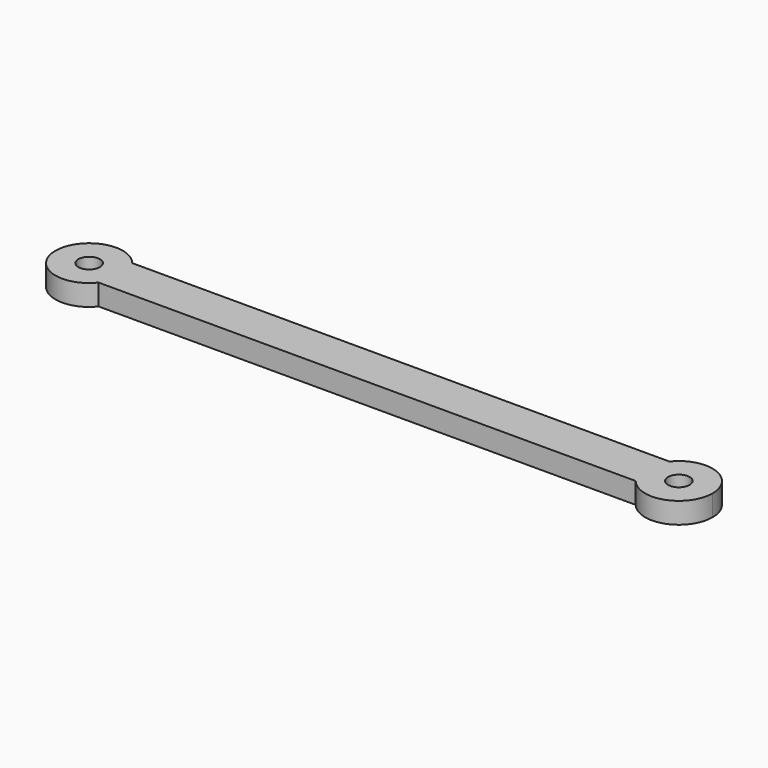
from build123d import *

# Parameters (mm, degrees)
F1_DEPTH = 3.175
F3_D     = 3.2512


with BuildPart() as f1:
    # F0 (on Top) → F1 (new body)
    with BuildSketch(Plane.XY):
        with BuildLine():
            Line((38.6128478041, -0.4344735458), (-42.3560047379, -0.4344735458))
            ThreePointArc((-42.3560047379, -0.4344735458), (-41.5282750891, -1.9270221414), (-41.2415784669, -3.6094735458))
            ThreePointArc((-41.2415784669, -3.6094735458), (-41.5282750891, -5.2919249503), (-42.3560047379, -6.7844735458))
            Line((-42.3560047379, -6.7844735458), (38.6128478041, -6.7844735458))
            ThreePointArc((38.6128478041, -6.7844735458), (37.4984215331, -3.6094735458), (38.6128478041, -0.4344735458))
        make_face()
        with BuildLine():
            ThreePointArc((47.6584215331, -3.6094735458), (44.2608729376, 1.1838298319), (38.6128478041, -0.4344735458))
            Line((38.6128478041, -0.4344735458), (42.5784215331, -0.4344735458))
            Line((42.5784215331, -0.4344735458), (42.5784215331, -6.7844735458))
            Line((42.5784215331, -6.7844735458), (38.6128478041, -6.7844735458))
            ThreePointArc((38.6128478041, -6.7844735458), (44.2608729376, -8.4027769236), (47.6584215331, -3.6094735458))
        make_face()
        with BuildLine():
            Line((42.5784215331, -0.4344735458), (38.6128478041, -0.4344735458))
            ThreePointArc((38.6128478041, -0.4344735458), (37.4984215331, -3.6094735458), (38.6128478041, -6.7844735458))
            Line((38.6128478041, -6.7844735458), (42.5784215331, -6.7844735458))
            Line((42.5784215331, -6.7844735458), (42.5784215331, -0.4344735458))
        make_face()
        with BuildLine():
            Line((-42.3560047379, -0.4344735458), (-46.3215784669, -0.4344735458))
            Line((-46.3215784669, -0.4344735458), (-46.3215784669, -6.7844735458))
            Line((-46.3215784669, -6.7844735458), (-42.3560047379, -6.7844735458))
            ThreePointArc((-42.3560047379, -6.7844735458), (-41.5282750891, -5.2919249503), (-41.2415784669, -3.6094735458))
            ThreePointArc((-41.2415784669, -3.6094735458), (-41.5282750891, -1.9270221414), (-42.3560047379, -0.4344735458))
        make_face()
        with BuildLine():
            Line((-46.3215784669, -6.7844735458), (-46.3215784669, -0.4344735458))
            Line((-46.3215784669, -0.4344735458), (-42.3560047379, -0.4344735458))
            ThreePointArc((-42.3560047379, -0.4344735458), (-51.4015784669, -3.6094735458), (-42.3560047379, -6.7844735458))
            Line((-42.3560047379, -6.7844735458), (-46.3215784669, -6.7844735458))
        make_face()
    extrude(amount=F1_DEPTH)

    # F3 (through all)
    with Locations(Plane(origin=(0, 0, 0), x_dir=(1, 0, 0), z_dir=(0, 0, -1))):
        with Locations((-46.3215784669, 3.6094735458), (42.5784215331, 3.6094735458)):
            Hole(F3_D / 2)


solid = f1.part
